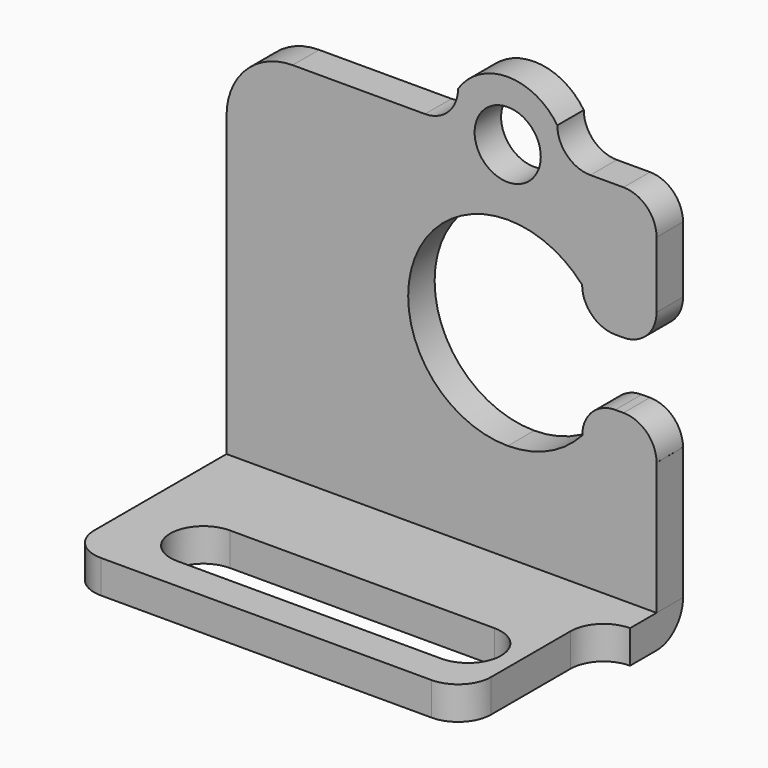
from build123d import *

# Parameters (mm, degrees)
EXTRUDE004_DEPTH                     = 5
EXTRUDE004_ONTO_SKETCH003_ROLL_ANGLE = 90
SKETCH004_AS_DRAWN_R                 = 1
EXTRUDE003_DEPTH                     = 10
EXTRUDE003_ONTO_SKETCH004_ROLL_ANGLE = 90
EXTRUDE005_DEPTH                     = 1
EXTRUDE005_ONTO_SKETCH002_ROLL_ANGLE = 90
EXTRUDE006_DEPTH                     = 15
EXTRUDE001_DEPTH                     = 1
EXTRUDE_DEPTH                        = 1


with BuildPart() as extrude004:
    # Sketch003 as drawn → Extrude004 (new)
    with BuildSketch(Plane.XY):
        with BuildLine():
            ThreePointArc((8.500012, 10), (5.490931, 6.990186), (8.501267, 3.981628))
            ThreePointArc((8.501267, 3.981628), (9.735803, 4.24621), (10.754109, 4.992623))
            ThreePointArc((11.751661, 5.997636), (11.044132, 5.702333), (10.754109, 4.992623))
            Line((11.751661, 5.997636), (12.000229, 5.997636))
            ThreePointArc((12.999313, 4.999389), (12.706459, 5.705374), (12.000229, 5.997636))
            Line((12.999313, 4.999389), (15.5, 5))
            Line((15.5, 5), (15.5, 9))
            Line((13, 9), (15.5, 9))
            ThreePointArc((12, 8), (12.707107, 8.292893), (13, 9))
            Line((11.75, 8), (12, 8))
            ThreePointArc((10.75, 9), (11.042893, 8.292893), (11.75, 8))
            ThreePointArc((10.75, 9), (9.731212, 9.738962), (8.500012, 10))
        make_face()
    extrude(amount=-EXTRUDE004_DEPTH)


with BuildPart() as extrude004_1:
    # Extrude004 onto Sketch003 roll: moved
    add(extrude004.part.rotate(Axis((0, 0, 0), (1, 0, 0)), EXTRUDE004_ONTO_SKETCH003_ROLL_ANGLE))


with BuildPart() as extrude004_2:
    # Extrude004 onto Sketch003 placement: moved
    add(extrude004_1.part.moved(Location((0, 3, 0))))


with BuildPart() as extrude003:
    # Sketch004 as drawn → Extrude003 (new)
    with BuildSketch(Plane.XY):
        with Locations((8.5, 12)):
            Circle(SKETCH004_AS_DRAWN_R)
    extrude(amount=-EXTRUDE003_DEPTH)


with BuildPart() as extrude003_1:
    # Extrude003 onto Sketch004 roll: moved
    add(extrude003.part.rotate(Axis((0, 0, 0), (1, 0, 0)), EXTRUDE003_ONTO_SKETCH004_ROLL_ANGLE))


with BuildPart() as extrude003_2:
    # Extrude003 onto Sketch004 placement: moved
    add(extrude003_1.part.moved(Location((0, 4, 0))))


with BuildPart() as extrude003_3:
    # Extrude003 placement: moved
    add(extrude003_2.part.moved(Location((0, -2, 0))))


with BuildPart() as cut002:
    # Sketch002 as drawn → Extrude005 (new)
    with BuildSketch(Plane.XY):
        with BuildLine():
            Line((0, 1), (0, 10))
            ThreePointArc((2, 12), (0.585786, 11.414214), (0, 10))
            Line((2, 12), (6, 12))
            ThreePointArc((6, 12), (6.707107, 12.292893), (7, 13))
            ThreePointArc((10, 13.000001), (8.5, 13.802776), (7, 13))
            ThreePointArc((10, 13.000001), (10.292893, 12.292893), (11, 12))
            Line((12, 12), (11, 12))
            ThreePointArc((13, 11), (12.707107, 11.707107), (12, 12))
            Line((13, 1), (13, 11))
            Line((0, 1), (13, 1))
        make_face()
    extrude(amount=-EXTRUDE005_DEPTH)


with BuildPart() as cut002_1:
    # Extrude005 onto Sketch002 roll: moved
    add(cut002.part.rotate(Axis((0, 0, 0), (1, 0, 0)), EXTRUDE005_ONTO_SKETCH002_ROLL_ANGLE))


with BuildPart() as cut002_2:
    # Extrude005 onto Sketch002 placement: moved
    add(cut002_1.part.moved(Location((0, 6, 0))))

    # Cut001: cut Extrude003
    add(extrude003_3.part, mode=Mode.SUBTRACT)

    # Cut002: cut Extrude004
    add(extrude004_2.part, mode=Mode.SUBTRACT)


with BuildPart() as extrude006:
    # Sketch005 → Extrude006 (new body)
    with BuildSketch(Plane.YZ):
        with BuildLine():
            ThreePointArc((6, 0), (6.707107, 0.292893), (7, 1))
            Line((7, 1), (7, 0))
            Line((6, 0), (7, 0))
        make_face()
    extrude(amount=EXTRUDE006_DEPTH)


with BuildPart() as extrude001:
    # Sketch001 → Extrude001 (new body)
    with BuildSketch(Plane.XY):
        with BuildLine():
            ThreePointArc((10.5, 1), (11.5, 2), (10.5, 3))
            Line((10.5, 3), (2.5, 3))
            ThreePointArc((2.5, 3), (1.5, 2), (2.5, 1))
            Line((2.5, 1), (10.5, 1))
        make_face()
    extrude(amount=EXTRUDE001_DEPTH)


with BuildPart() as cut003:
    # Sketch → Extrude (new body)
    with BuildSketch(Plane.XY):
        with BuildLine():
            ThreePointArc((0, 1), (0.292893, 0.292893), (1, 0))
            Line((1, 0), (11, 0))
            ThreePointArc((11, 0), (11.707107, 0.292893), (12, 1))
            Line((12, 4), (12, 1))
            ThreePointArc((13, 5), (12.292893, 4.707107), (12, 4))
            Line((13, 7), (13, 5))
            Line((0, 7), (13, 7))
            Line((0, 1), (0, 7))
        make_face()
    extrude(amount=EXTRUDE_DEPTH)

    # Cut: cut Extrude001
    add(extrude001.part, mode=Mode.SUBTRACT)

    # Cut003: cut Extrude006
    add(extrude006.part, mode=Mode.SUBTRACT)


solid = Compound([cut002_2.part, cut003.part])
